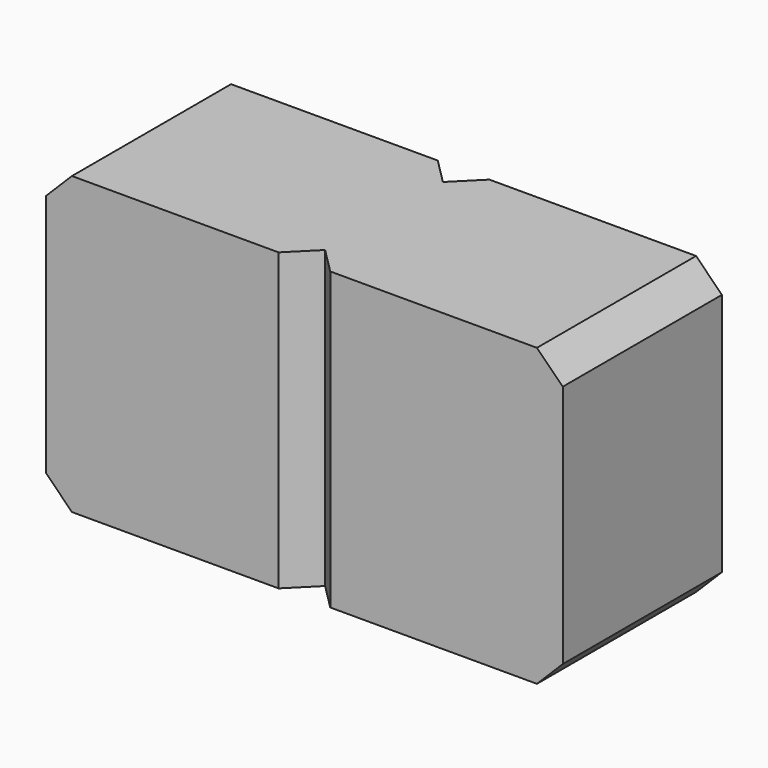
from build123d import *

# Parameters (mm, degrees)
F0_W     = 50.8
F0_H     = 58.169952
F1_DEPTH = 19.558
F2_SIZE  = 5.08
F3_SIZE  = 5.08


with BuildPart() as f1:
    # F0 (on Front) → F1 (new body)
    with BuildSketch(Plane.XZ):
        Rectangle(F0_W, F0_H)
    extrude(amount=F1_DEPTH)

    # F2
    f2_edges = [f1.edges().sort_by_distance(p)[0] for p in [
        (25.4, -9.779, 29.084976),
    ]]
    chamfer(f2_edges, length=F2_SIZE)

    # F3
    f3_edges = [f1.edges().sort_by_distance(p)[0] for p in [
        (25.4, -9.779, -29.084976),
        (-25.4, -19.558, 0),
    ]]
    chamfer(f3_edges, length=F3_SIZE)

    # F4: F1 across face


with BuildPart() as f1_1:
    add(f1.part)
    add(f1.part.mirror(Plane(origin=(-25.4, -7.239, 0), x_dir=(0, -1, 0), z_dir=(-1, 0, 0))))

    # F5: F1 across face


with BuildPart() as f1_2:
    add(f1_1.part)
    add(f1_1.part.mirror(Plane(origin=(-25.4, 0, 0), x_dir=(1, 0, 0), z_dir=(0, 1, 0))))


solid = f1_2.part
